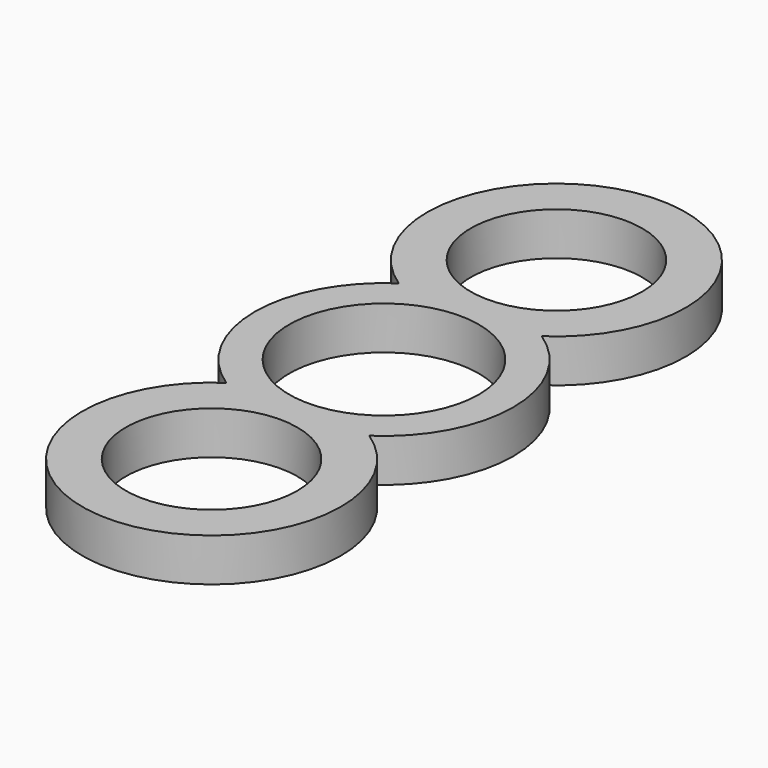
from build123d import *

# Parameters (mm, degrees)
F0_R     = 9.95
F0_R_2   = 11
F1_DEPTH = 5


with BuildPart() as f1:
    # F0 (on Top) → F1 (new body)
    with BuildSketch(Plane.XY):
        with BuildLine():
            ThreePointArc((8.291562, -12.5), (15, 0), (8.291562, 12.5))
            ThreePointArc((8.291562, 12.5), (0, 40), (-8.291562, 12.5))
            ThreePointArc((-8.291562, 12.5), (-15, 0), (-8.291562, -12.5))
            ThreePointArc((-8.291562, -12.5), (0, -40), (8.291562, -12.5))
        make_face()
        with Locations((0, -25)):
            Circle(F0_R, mode=Mode.SUBTRACT)
        Circle(F0_R_2, mode=Mode.SUBTRACT)
        with Locations((0, 25)):
            Circle(F0_R, mode=Mode.SUBTRACT)
    extrude(amount=F1_DEPTH)


solid = f1.part
